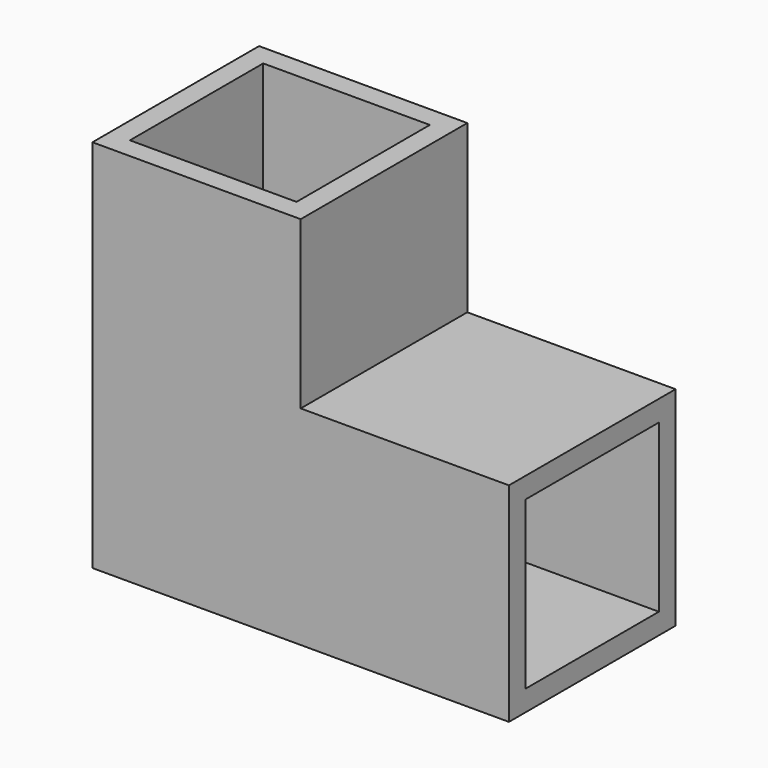
from build123d import *

# Parameters (mm, degrees)
F0_W     = 25
F0_H     = 20
F0_H_2   = 5
F0_W_2   = 20
F0_H_3   = 25
F1_DEPTH = 25
F2_W     = 20
F2_H     = 20
F3_DEPTH = 20
F4_W     = 20
F4_H     = 20
F5_DEPTH = 20
F6_W     = 25
F6_H     = 25
F6_W_2   = 20
F6_H_2   = 20
F7_DEPTH = 20


with BuildPart() as f1:
    # F0 (on Top) → F1 (new body)
    with BuildSketch(Plane.XY):
        with Locations((-12.5, 20)):
            Rectangle(F0_W, F0_H)
        Polygon((5, 30), (0, 30), (0, 10), (0, 5), (5, 5), align=None)
        with Locations((-12.5, 7.5)):
            Rectangle(F0_W, F0_H_2)
        with Locations((15, 17.5)):
            Rectangle(F0_W_2, F0_H_3)
    extrude(amount=F1_DEPTH)

    # F2 (on face) → F3 (cut)
    with BuildSketch(Plane(origin=(0, 30, 0), x_dir=(-1, 0, 0), z_dir=(0, 1, 0))):
        with Locations((12.5, 12.5)):
            Rectangle(F2_W, F2_H)
    extrude(amount=-F3_DEPTH, mode=Mode.SUBTRACT)

    # F4 (on face) → F5 (cut)
    with BuildSketch(Plane.YZ.offset(25)):
        with Locations((17.5, 12.5)):
            Rectangle(F4_W, F4_H)
    extrude(amount=-F5_DEPTH, mode=Mode.SUBTRACT)

    # F6 (on face) → F7 (join)
    with BuildSketch(Plane.XY.offset(25)):
        with Locations((-12.5, 17.5)):
            Rectangle(F6_W, F6_H)
        with Locations((-12.5, 17.5)):
            Rectangle(F6_W_2, F6_H_2, mode=Mode.SUBTRACT)
    extrude(amount=F7_DEPTH)


solid = f1.part
